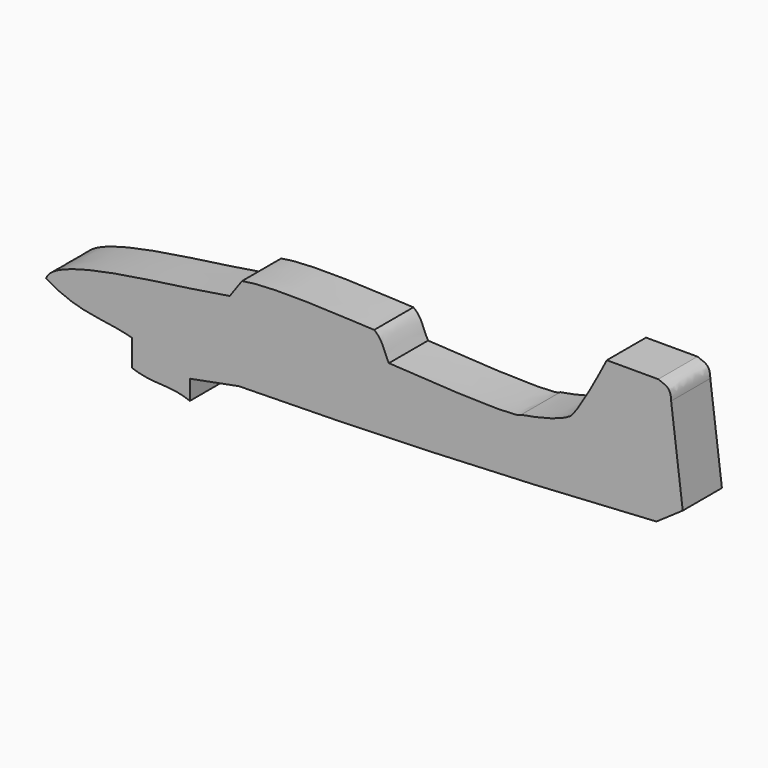
from build123d import *

# Parameters (mm, degrees)
F1_DEPTH = 25.4


with BuildPart() as f1:
    # F0 (on Front) → F1 (new body)
    with BuildSketch(Plane.XZ):
        with BuildLine():
            add(Edge.make_bspline(
                [(-165.1, -12.7), (-160.657838, 0), (-103.340782, 4.108928), (-69.85, 10.16)],
                knots=[0, 0, 0, 0, 97.954796, 97.954796, 97.954796, 97.954796], degree=3))
            add(Edge.make_bspline(
                [(-165.1, -12.7), (-147.857636, -23.46072), (-135.454967, -21.166667), (-120.63245, -25.4)],
                knots=[0, 0, 0, 0, 46.245572, 46.245572, 46.245572, 46.245572], degree=3))
            Line((-120.63245, -25.4), (-120.63245, -39.115937))
            add(Edge.make_bspline(
                [(-120.63245, -39.115937), (-109.949814, -43.202554), (-101.051494, -40.286522), (-90.506003, -44.45)],
                knots=[0, 0, 0, 0, 30.595017, 30.595017, 30.595017, 30.595017], degree=3))
            Line((-90.506003, -44.45), (-90.49646, -34.296204))
            Line((-90.49646, -34.296204), (-65.09646, -29.478624))
            add(Edge.make_bspline(
                [(151.454941, -20.844295), (76.237051, -25.794228), (10.784542, -28.536206), (-65.09646, -29.478624)],
                knots=[0, 0, 0, 0, 216.723466, 216.723466, 216.723466, 216.723466], degree=3))
            Line((151.454941, -20.844295), (165.1, -11.43))
            Line((165.1, -11.43), (159.076229, 36.646433))
            add(Edge.make_bspline(
                [(152.4, 44.45), (156.209528, 42.954981), (158.982977, 42.765886), (159.076229, 36.646433)],
                knots=[0, 0, 0, 0, 10.269746, 10.269746, 10.269746, 10.269746], degree=3))
            Line((152.4, 44.45), (125.73, 44.45))
            add(Edge.make_bspline(
                [(106.68, 12.7), (110.074804, 15.075844), (120.621224, 34.334068), (125.73, 44.45)],
                knots=[0, 0, 0, 0, 37.026545, 37.026545, 37.026545, 37.026545], degree=3))
            add(Edge.make_bspline(
                [(81.28, 5.08), (82.77345, 5.442668), (98.651765, 7.514939), (106.68, 12.7)],
                knots=[0, 0, 0, 0, 26.518379, 26.518379, 26.518379, 26.518379], degree=3))
            add(Edge.make_bspline(
                [(12.7, 6.35), (54.409864, 3.585023), (80.389956, 3.057459), (81.28, 5.08)],
                knots=[0, 0, 0, 0, 68.591758, 68.591758, 68.591758, 68.591758], degree=3))
            add(Edge.make_bspline(
                [(5.08, 19.05), (9.753358, 15.723685), (10.16, 10.583333), (12.7, 6.35)],
                knots=[0, 0, 0, 0, 14.810618, 14.810618, 14.810618, 14.810618], degree=3))
            add(Edge.make_bspline(
                [(-63.5, 19.05), (-47.14213, 22.504569), (-0.091556, 19.008015), (5.08, 19.05)],
                knots=[0, 0, 0, 0, 68.58, 68.58, 68.58, 68.58], degree=3))
            Line((-63.5, 19.05), (-69.85, 10.16))
        make_face()
    extrude(amount=F1_DEPTH)


solid = f1.part
